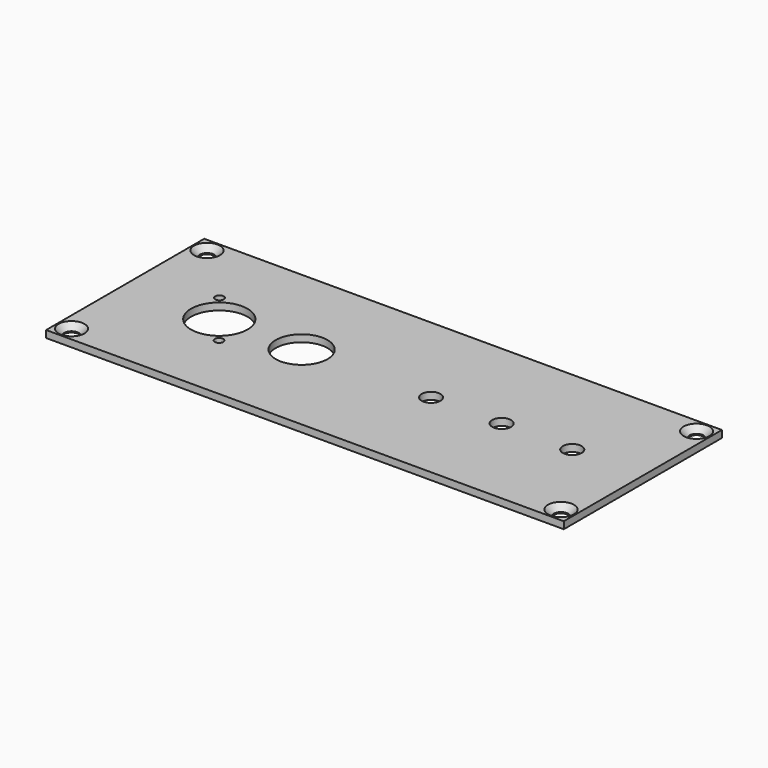
from build123d import *

# Parameters (mm, degrees)
SKETCH001_W     = 220
SKETCH001_H     = 84
SKETCH001_R     = 3
SKETCH001_R_2   = 11
SKETCH001_R_3   = 4
SKETCH001_R_4   = 12
SKETCH001_R_5   = 1.8
PAD_DEPTH       = 3
SKETCH_W        = 3
SKETCH_H        = 4
POCKET_DEPTH    = 2
CHAMFER_SIZE    = 2.5
CHAMFER001_SIZE = 2.5
CHAMFER002_SIZE = 2.5
CHAMFER003_SIZE = 2.5


with BuildPart() as part:
    # Sketch001 → Pad (new body)
    with BuildSketch(Plane.XY):
        Rectangle(SKETCH001_W, SKETCH001_H)
        with Locations((-104, -36)):
            Circle(SKETCH001_R, mode=Mode.SUBTRACT)
        with Locations((-104, 36)):
            Circle(SKETCH001_R, mode=Mode.SUBTRACT)
        with Locations((104, 36)):
            Circle(SKETCH001_R, mode=Mode.SUBTRACT)
        with Locations((104, -36)):
            Circle(SKETCH001_R, mode=Mode.SUBTRACT)
        with Locations((-35, 0)):
            Circle(SKETCH001_R_2, mode=Mode.SUBTRACT)
        with Locations((80, 0)):
            Circle(SKETCH001_R_3, mode=Mode.SUBTRACT)
        with Locations((50, 0)):
            Circle(SKETCH001_R_3, mode=Mode.SUBTRACT)
        with Locations((20, 0)):
            Circle(SKETCH001_R_3, mode=Mode.SUBTRACT)
        with Locations((-70, 0)):
            Circle(SKETCH001_R_4, mode=Mode.SUBTRACT)
        with Locations((-79.5, 12)):
            Circle(SKETCH001_R_5, mode=Mode.SUBTRACT)
        with Locations((-60.5, -12)):
            Circle(SKETCH001_R_5, mode=Mode.SUBTRACT)
    extrude(amount=PAD_DEPTH)

    # Sketch (on Face16 of Pad) → Pocket (cut)
    with BuildSketch(Plane(origin=(0, 0, 0), x_dir=(1, 0, 0), z_dir=(0, 0, -1))):
        with Locations((11.5, 0)):
            Rectangle(SKETCH_W, SKETCH_H)
        with Locations((41.5, 0)):
            Rectangle(SKETCH_W, SKETCH_H)
        with Locations((71.5, 0)):
            Rectangle(SKETCH_W, SKETCH_H)
    extrude(amount=-POCKET_DEPTH, mode=Mode.SUBTRACT)

    # Chamfer
    chamfer_edges = [part.edges().sort_by_distance(p)[0] for p in [
        (-107, -36, 3),
    ]]
    chamfer(chamfer_edges, length=CHAMFER_SIZE)

    # Chamfer001
    chamfer001_edges = [part.edges().sort_by_distance(p)[0] for p in [
        (-107, 36, 3),
    ]]
    chamfer(chamfer001_edges, length=CHAMFER001_SIZE)

    # Chamfer002
    chamfer002_edges = [part.edges().sort_by_distance(p)[0] for p in [
        (101, 36, 3),
    ]]
    chamfer(chamfer002_edges, length=CHAMFER002_SIZE)

    # Chamfer003
    chamfer003_edges = [part.edges().sort_by_distance(p)[0] for p in [
        (101, -36, 3),
    ]]
    chamfer(chamfer003_edges, length=CHAMFER003_SIZE)


solid = part.part
